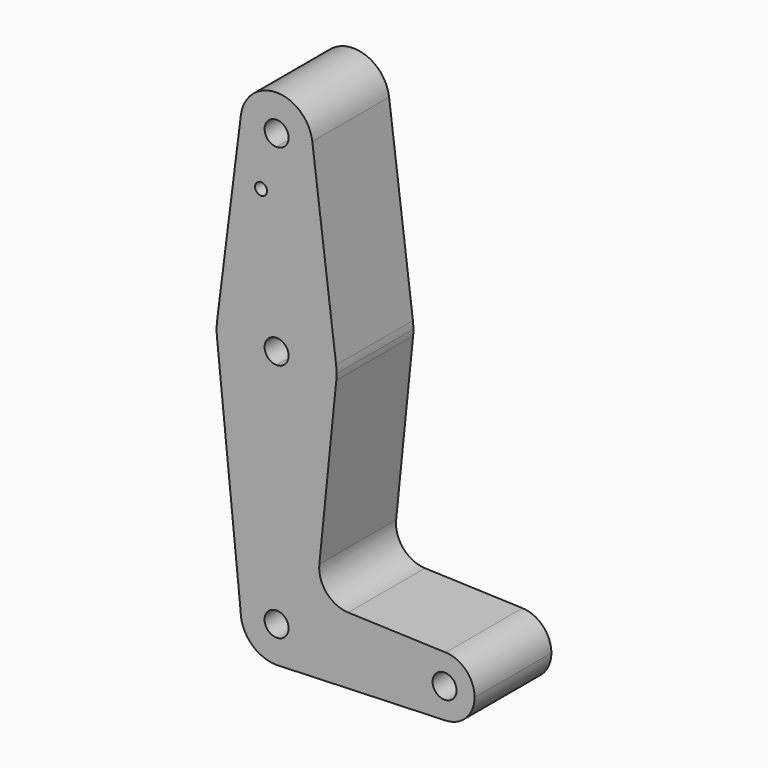
from build123d import *

# Parameters (mm, degrees)
F0_R     = 1.5875
F1_DEPTH = 25.4


with BuildPart() as f1:
    # F0 (on Front) → F1 (new body)
    with BuildSketch(Plane.XZ):
        with BuildLine():
            ThreePointArc((3.175, 0), (-2.2450640303, -2.2450640303), (0, 3.175))
            Line((0, 3.175), (0, 9.525))
            ThreePointArc((0, 9.525), (-6.7351920908, 6.7351920908), (-9.525, 0))
            ThreePointArc((-9.525, 0), (-6.7351920908, -6.7351920908), (0, -9.525))
            Line((0, -9.525), (0.6773435479, -9.500885786))
            ThreePointArc((0.6773435479, -9.500885786), (6.9705567315, -6.4912990883), (9.525, 0))
            Line((9.525, 0), (3.175, 0))
        make_face()
        with BuildLine():
            ThreePointArc((-9.525, 0), (-6.7351920908, 6.7351920908), (0, 9.525))
            Line((0, 9.525), (0, 47.625))
            ThreePointArc((0, 47.625), (-10.644756084, 51.722700101), (-15.7942028036, 61.9003804205))
            Line((-15.7942028036, 61.9003804205), (-9.525, 0))
        make_face()
        with BuildLine():
            Line((0, 47.625), (0, 9.525))
            ThreePointArc((0, 9.525), (6.7351920908, 6.7351920908), (9.525, 0))
            Line((9.525, 0), (36.5125, 0))
            ThreePointArc((36.5125, 0), (38.9380895153, 5.7116327839), (44.7324052746, 7.9324746146))
            Line((44.7324052746, 7.9324746146), (18.9341027877, 8.850924033))
            ThreePointArc((18.9341027877, 8.850924033), (13.2249738114, 11.5709798305), (11.3072231466, 17.5971800924))
            Line((11.3072231466, 17.5971800924), (15.7942028036, 61.9003804205))
            ThreePointArc((15.7942028036, 61.9003804205), (10.644756084, 51.722700101), (0, 47.625))
        make_face()
        with BuildLine():
            Line((36.5125, 0), (9.525, 0))
            ThreePointArc((9.525, 0), (6.9705567315, -6.4912990883), (0.6773435479, -9.500885786))
            Line((0.6773435479, -9.500885786), (44.7324052746, -7.9324746146))
            ThreePointArc((44.7324052746, -7.9324746146), (38.9380895153, -5.7116327839), (36.5125, 0))
        make_face()
        with BuildLine():
            ThreePointArc((-15.7942028036, 61.9003804205), (-10.644756084, 51.722700101), (0, 47.625))
            Line((0, 47.625), (0, 60.325))
            ThreePointArc((0, 60.325), (-3.175, 63.5), (0, 66.675))
            Line((0, 66.675), (0, 79.375))
            ThreePointArc((0, 79.375), (-10.5003255158, 75.40625), (-15.7504882737, 65.484375))
            ThreePointArc((-15.7504882737, 65.484375), (-15.8738192656, 63.6936154008), (-15.7942028036, 61.9003804205))
        make_face()
        with BuildLine():
            Line((0, 60.325), (0, 47.625))
            ThreePointArc((0, 47.625), (10.644756084, 51.722700101), (15.7942028036, 61.9003804205))
            ThreePointArc((15.7942028036, 61.9003804205), (15.8547878338, 62.6991705884), (15.875, 63.5))
            ThreePointArc((15.875, 63.5), (15.8438414904, 64.4941387366), (15.7504882737, 65.484375))
            ThreePointArc((15.7504882737, 65.484375), (10.5003255158, 75.40625), (0, 79.375))
            Line((0, 79.375), (0, 66.675))
            ThreePointArc((0, 66.675), (2.2450640303, 65.7450640303), (3.175, 63.5))
            ThreePointArc((3.175, 63.5), (2.2450640303, 61.2549359697), (0, 60.325))
        make_face()
        with BuildLine():
            ThreePointArc((44.7324052746, 7.9324746146), (38.9380895153, 5.7116327839), (36.5125, 0))
            ThreePointArc((36.5125, 0), (38.9380895153, -5.7116327839), (44.7324052746, -7.9324746146))
            ThreePointArc((44.7324052746, -7.9324746146), (50.1616327839, -5.5119104847), (52.3875, 0))
            ThreePointArc((52.3875, 0), (50.1616327839, 5.5119104847), (44.7324052746, 7.9324746146))
        make_face()
        with BuildLine():
            ThreePointArc((47.625, 0), (44.45, -3.175), (41.275, 0))
            ThreePointArc((41.275, 0), (44.45, 3.175), (47.625, 0))
        make_face(mode=Mode.SUBTRACT)
        with BuildLine():
            ThreePointArc((0, -9.525), (0.3388863295, -9.5189695375), (0.6773435479, -9.500885786))
            Line((0.6773435479, -9.500885786), (0, -9.525))
        make_face()
        with BuildLine():
            Line((-9.4502929642, 115.490625), (-15.7504882737, 65.484375))
            ThreePointArc((-15.7504882737, 65.484375), (-10.5003255158, 75.40625), (0, 79.375))
            Line((0, 79.375), (0, 104.775))
            ThreePointArc((0, 104.775), (-7.14375, 107.9998046905), (-9.4502929642, 115.490625))
        make_face()
        with Locations((-4.1038673371, 100.0252)):
            Circle(F0_R, mode=Mode.SUBTRACT)
        with BuildLine():
            Line((0, 104.775), (0, 79.375))
            ThreePointArc((0, 79.375), (10.5003255158, 75.40625), (15.7504882737, 65.484375))
            Line((15.7504882737, 65.484375), (9.4502929642, 115.490625))
            ThreePointArc((9.4502929642, 115.490625), (9.5063048942, 114.896483242), (9.525, 114.3))
            ThreePointArc((9.525, 114.3), (6.7351920908, 107.5648079092), (0, 104.775))
        make_face()
        with BuildLine():
            ThreePointArc((9.4502929642, 115.490625), (0, 123.825), (-9.4502929642, 115.490625))
            ThreePointArc((-9.4502929642, 115.490625), (-7.14375, 107.9998046905), (0, 104.775))
            ThreePointArc((0, 104.775), (6.7351920908, 107.5648079092), (9.525, 114.3))
            ThreePointArc((9.525, 114.3), (9.5063048942, 114.896483242), (9.4502929642, 115.490625))
        make_face()
        with BuildLine():
            ThreePointArc((3.175, 114.3), (2.2450640303, 112.0549359697), (0, 111.125))
            ThreePointArc((0, 111.125), (-2.2450640303, 116.5450640303), (3.175, 114.3))
        make_face(mode=Mode.SUBTRACT)
        with BuildLine():
            Line((0, 9.525), (0, 3.175))
            ThreePointArc((0, 3.175), (2.2450640303, 2.2450640303), (3.175, 0))
            Line((3.175, 0), (9.525, 0))
            ThreePointArc((9.525, 0), (6.7351920908, 6.7351920908), (0, 9.525))
        make_face()
    extrude(amount=F1_DEPTH)


solid = f1.part
